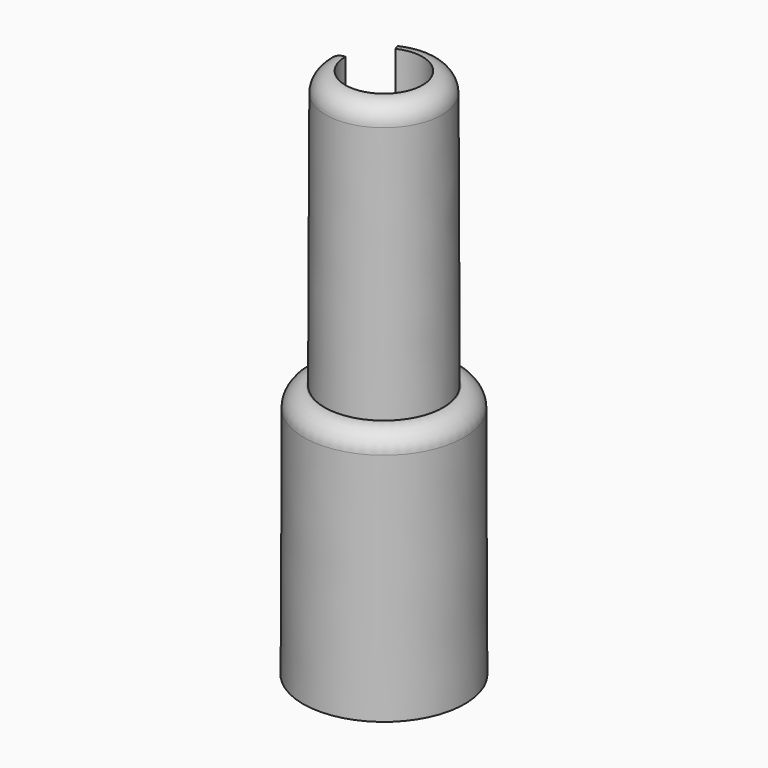
from build123d import *

# Parameters (mm, degrees)
F1_ANGLE = 295
F2_R     = 1


with BuildPart() as f1:
    # F0 (on Front) → F1 (revolve)
    with BuildSketch(Plane.XZ):
        Polygon((-4.09585, 0), (-3, 0), (-3, 11.9), (-1.95, 11.9), (-1.95, 26.9), (-2.95, 26.9), (-3, 12.866658), (-4.049993, 12.870399), align=None)
    revolve(axis=Axis((0, 0, 12.013339), (0, 0, 1)), revolution_arc=F1_ANGLE)

    # F2
    f2_edges = [f1.edges().sort_by_distance(p)[0] for p in [
        (2.488005, -1.585034, 26.9),
        (3.41573, -2.17606, 12.870399),
    ]]
    fillet(f2_edges, radius=F2_R)


solid = f1.part
